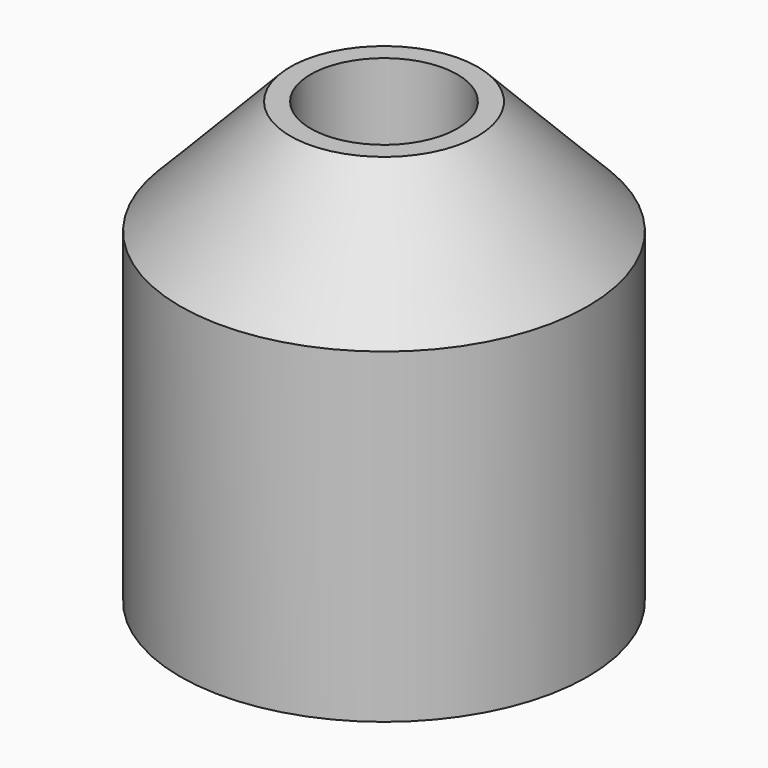
from build123d import *

# Parameters (mm, degrees)
CYLINDER100_R     = 1.8
CYLINDER100_DEPTH = 2.8
TUBE_R            = 5
TUBE_R_2          = 1.8
TUBE_DEPTH        = 8


with BuildPart() as puller_washer_cone_hole:
    # Cylinder100 → Cylinder100 (new body)
    with BuildSketch(Plane.XY):
        Circle(CYLINDER100_R)
    extrude(amount=CYLINDER100_DEPTH)


with BuildPart() as puller_washer_cone_cut:
    # Cone → Cone (revolve)
    with BuildSketch(Plane.XZ):
        Polygon((0, 0), (5, 0), (2.3, 2.8), (0, 2.8), align=None)
    revolve(axis=Axis((0, 0, 0), (0, 0, 1)))

    # Cut: cut puller washer cone hole
    add(puller_washer_cone_hole.part, mode=Mode.SUBTRACT)


with BuildPart() as puller_washer_cone_cut_1:
    # Cut placement: moved
    add(puller_washer_cone_cut.part.moved(Location((0, 0, 8))))


with BuildPart() as puller_mount_washer:
    # Tube → Tube (new body)
    with BuildSketch(Plane.XY):
        Circle(TUBE_R)
        Circle(TUBE_R_2, mode=Mode.SUBTRACT)
    extrude(amount=TUBE_DEPTH)

    # Fusion: union puller washer cone cut
    add(puller_washer_cone_cut_1.part)


solid = puller_mount_washer.part
